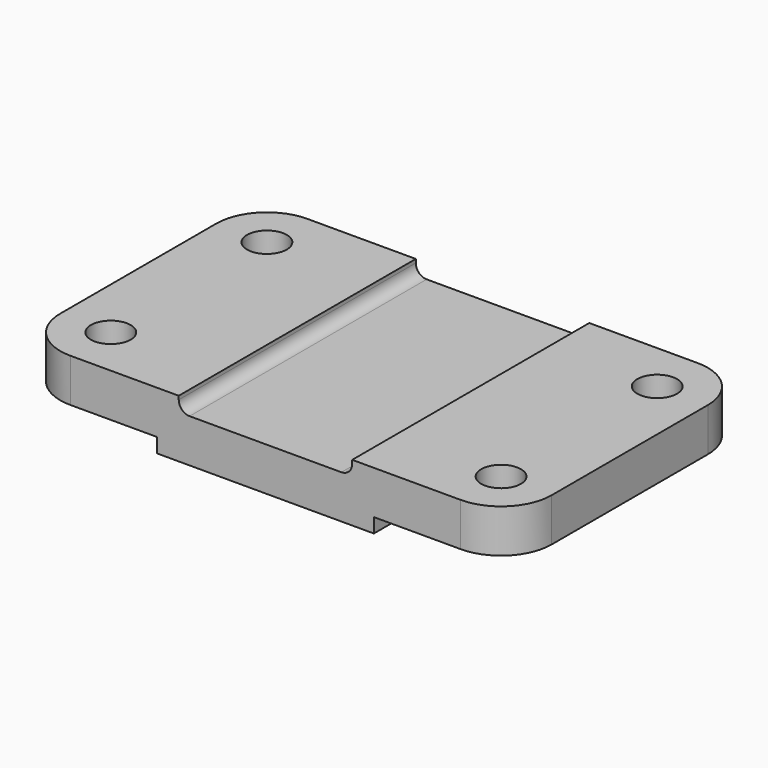
from build123d import *

# Parameters (mm, degrees)
F1_DEPTH = 12
F2_W     = 48
F2_H     = 82
F3_DEPTH = 4
F4_R     = 3
F5_W     = 60
F5_H     = 82
F6_DEPTH = 4
F7_R     = 5.5
F8_DEPTH = 16.001


with BuildPart() as f1:
    # F0 (on Top) → F1 (new body)
    with BuildSketch(Plane.XY):
        with BuildLine():
            ThreePointArc((68, 27), (63.899495, 36.899495), (54, 41))
            Line((54, 41), (-54, 41))
            ThreePointArc((-54, 41), (-63.899495, 36.899495), (-68, 27))
            Line((-68, 27), (-68, -27))
            ThreePointArc((-68, -27), (-63.899495, -36.899495), (-54, -41))
            Line((-54, -41), (54, -41))
            ThreePointArc((54, -41), (63.899495, -36.899495), (68, -27))
            Line((68, -27), (68, 27))
        make_face()
    extrude(amount=F1_DEPTH)

    # F2 (on face) → F3 (cut)
    with BuildSketch(Plane.XY.offset(12)):
        Rectangle(F2_W, F2_H)
    extrude(amount=-F3_DEPTH, mode=Mode.SUBTRACT)

    # F4
    f4_edges = [f1.edges().sort_by_distance(p)[0] for p in [
        (-24, 0, 8),
        (24, 0, 8),
    ]]
    fillet(f4_edges, radius=F4_R)

    # F5 (on face) → F6 (join)
    with BuildSketch(Plane(origin=(0, 0, 0), x_dir=(1, 0, 0), z_dir=(0, 0, -1))):
        Rectangle(F5_W, F5_H)
    extrude(amount=F6_DEPTH)

    # F7 (on face) → F8 (cut, through all)
    with BuildSketch(Plane.XY.offset(12)):
        with Locations((-54, 27)):
            Circle(F7_R)
        with Locations((-54, -27)):
            Circle(F7_R)
        with Locations((54, -27)):
            Circle(F7_R)
        with Locations((54, 27)):
            Circle(F7_R)
    extrude(amount=-F8_DEPTH, mode=Mode.SUBTRACT)


solid = f1.part
